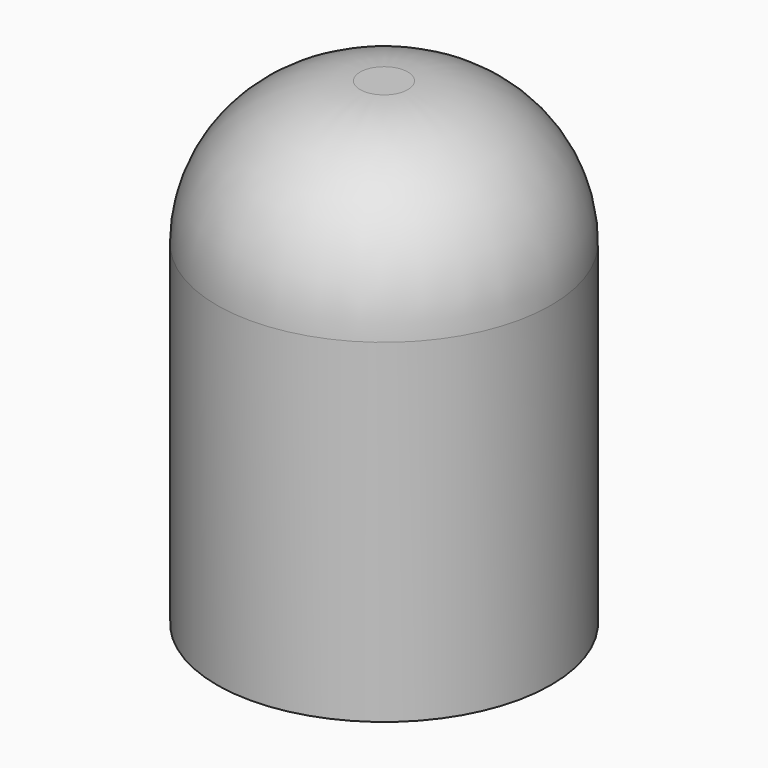
from build123d import *

# Parameters (mm, degrees)
F0_R     = 4.445
F1_DEPTH = 12.7
F2_R     = 3.81


with BuildPart() as f1:
    # F0 (on Top) → F1 (new body)
    with BuildSketch(Plane.XY):
        Circle(F0_R)
    extrude(amount=F1_DEPTH)

    # F2
    f2_edges = [f1.edges().sort_by_distance(p)[0] for p in [
        (-4.445, 0, 12.7),
    ]]
    fillet(f2_edges, radius=F2_R)

    # F3 (on Front) → F4 (revolve, cut)
    with BuildSketch(Plane.XZ):
        with BuildLine():
            Line((-2.54, 0), (0, 0))
            Line((0, 0), (0, 8.636))
            Line((0, 8.636), (0, 11.176))
            ThreePointArc((0, 11.176), (-1.796051, 10.432051), (-2.54, 8.636))
            Line((-2.54, 8.636), (-2.54, 0))
        make_face()
    revolve(axis=Axis((0, 0, 4.318), (0, 0, -1)), mode=Mode.SUBTRACT)


solid = f1.part
